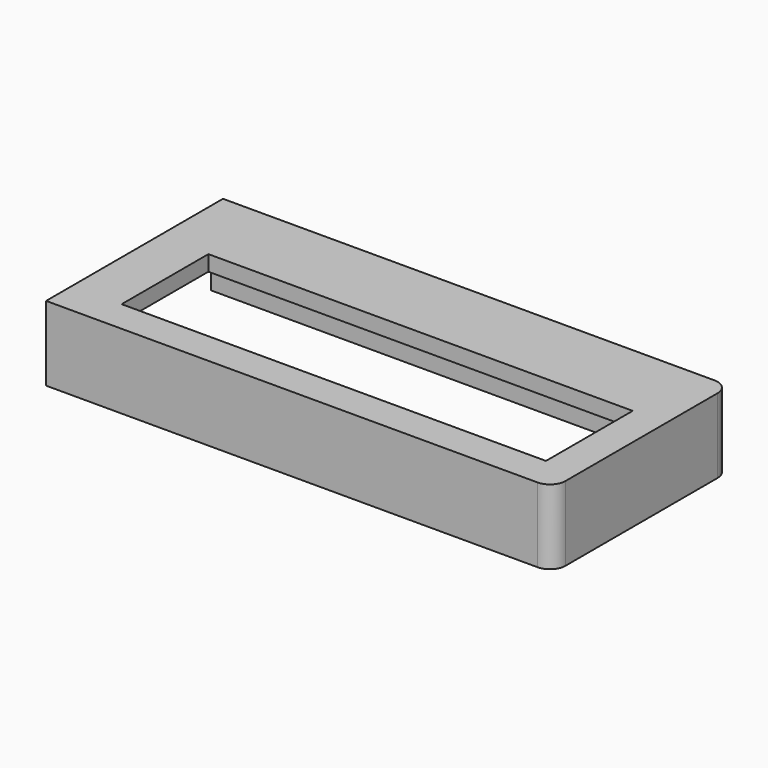
from build123d import *

# Parameters (mm, degrees)
PAD038_DEPTH    = 9.55
THICKNESS004_T  = -2.4
SKETCH044_W     = 30.9
SKETCH044_H     = 9.55
POCKET008_DEPTH = 2.4
SKETCH040_W     = 68.5
SKETCH040_H     = 17.5
PAD036_DEPTH    = 2.5


with BuildPart() as body012:
    # Sketch043 → Pad038 (new body)
    with BuildSketch(Plane.XY):
        with BuildLine():
            Line((126.75, 6.7), (126.75, -29))
            Line((126.75, -29), (206.1, -29))
            ThreePointArc((206.1, -29), (207.867767, -28.267767), (208.6, -26.5))
            Line((208.6, -26.5), (208.6, 4.2))
            ThreePointArc((208.6, 4.2), (207.867767, 5.967767), (206.1, 6.7))
            Line((206.1, 6.7), (126.75, 6.7))
        make_face()
    extrude(amount=-PAD038_DEPTH)

    # Thickness004
    thickness004_openings = [body012.faces().sort_by_distance(p)[0] for p in [
        (167.637908, -11.15, -9.55),
        (167.637908, -11.15, 0),
    ]]
    offset(amount=THICKNESS004_T, openings=thickness004_openings, kind=Kind.INTERSECTION)

    # Sketch044 (on Face8 of Thickness004) → Pocket008 (cut)
    with BuildSketch(Plane.YZ.offset(129.15)):
        with Locations((-11.15, -4.775)):
            Rectangle(SKETCH044_W, SKETCH044_H)
    extrude(amount=-POCKET008_DEPTH, mode=Mode.SUBTRACT)


with BuildPart() as body012_1:
    # Body012 placement: moved
    add(body012.part.moved(Location((0, 0, 10))))


with BuildPart() as tail_cover:
    # Sketch040 → Pad036 (new body)
    with BuildSketch(Plane.XY):
        with BuildLine():
            Line((126.75, 6.7), (126.75, -29))
            Line((126.75, -29), (206.1, -29))
            ThreePointArc((206.1, -29), (207.867767, -28.267767), (208.6, -26.5))
            Line((208.6, -26.5), (208.6, 4.2))
            ThreePointArc((208.6, 4.2), (207.867767, 5.967767), (206.1, 6.7))
            Line((206.1, 6.7), (126.75, 6.7))
        make_face()
        with Locations((169, -15)):
            Rectangle(SKETCH040_W, SKETCH040_H, mode=Mode.SUBTRACT)
    extrude(amount=PAD036_DEPTH)


with BuildPart() as tail_cover_1:
    # Body010 placement: moved
    add(tail_cover.part.moved(Location((0, 0, 10))))

    # Fusion: union Body012
    add(body012_1.part)


with BuildPart() as tail_cover_2:
    # Fusion placement: moved
    add(tail_cover_1.part.moved(Location((0, 0, -0.45))))


solid = tail_cover_2.part
